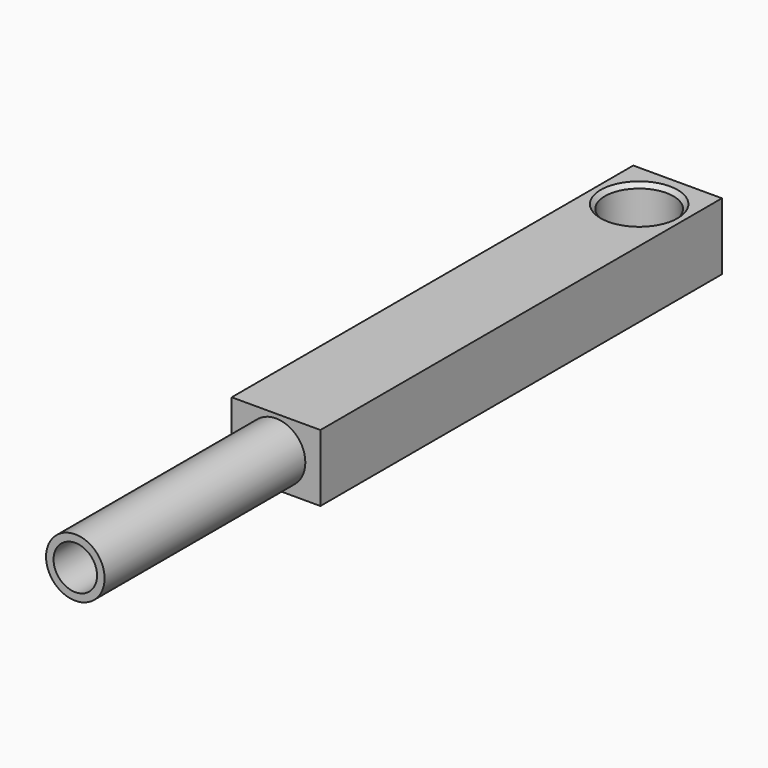
from build123d import *

# Parameters (mm, degrees)
F0_W     = 5.3
F0_H     = 4
F1_DEPTH = 30
F2_R     = 1.75
F2_R_2   = 1.3
F3_DEPTH = 15
F4_R     = 1.3
F5_DEPTH = 25.8
F6_R     = 2.05
F7_DEPTH = 5
F8_SIZE  = 0.25


with BuildPart() as f1:
    # F0 (on Front) → F1 (new body)
    with BuildSketch(Plane.XZ):
        Rectangle(F0_W, F0_H)
    extrude(amount=-F1_DEPTH)

    # F2 (on face) → F3 (join)
    with BuildSketch(Plane.XZ):
        Circle(F2_R)
        Circle(F2_R_2, mode=Mode.SUBTRACT)
    extrude(amount=F3_DEPTH)

    # F4 (on face) → F5 (join)
    with BuildSketch(Plane.XZ):
        Circle(F4_R)
    extrude(amount=-F5_DEPTH)

    # F6 (on face) → F7 (cut)
    with BuildSketch(Plane(origin=(0, 0, -2), x_dir=(1, 0, 0), z_dir=(0, 0, -1))):
        with Locations((0, -27.128747)):
            Circle(F6_R)
    extrude(amount=-F7_DEPTH, mode=Mode.SUBTRACT)

    # F8
    f8_edges = [f1.edges().sort_by_distance(p)[0] for p in [
        (-2.05, 27.128747, -2),
        (-2.05, 27.128747, 2),
    ]]
    chamfer(f8_edges, length=F8_SIZE)


solid = f1.part
